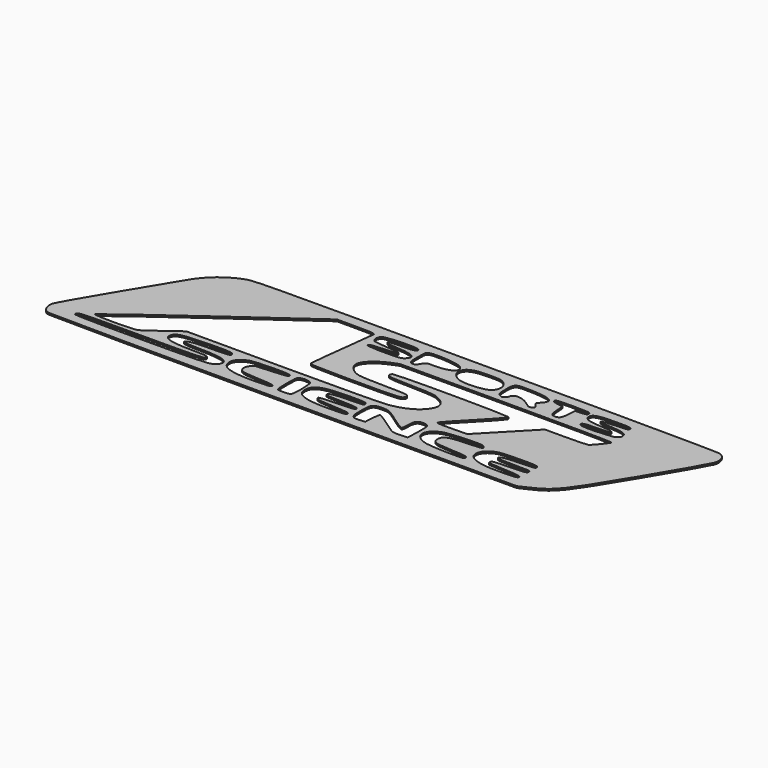
from build123d import *

# Parameters (mm, degrees)
F1_DEPTH = 25.4


with BuildPart() as f1:
    # F0 (on Top) → F1 (new body)
    with BuildSketch(Plane.XY):
        with BuildLine():
            add(Edge.make_bspline(
                [(-4148.2478884, -1047.0262524), (-4215.3594382, -1022.2834012), (-4255.3090154, -931.255694), (-4236.5467212, -845.8315062)],
                knots=[0, 0, 0, 0, 1, 1, 1, 1], degree=3))
            add(Edge.make_bspline(
                [(-640.0142648, -1063.2773756), (-2847.054758, -1065.574958), (-4113.853215, -1059.7069484), (-4148.2478884, -1047.0262524)],
                knots=[0, 0, 0, 0, 1, 1, 1, 1], degree=3))
            Line((-640.0142648, -1063.2773756), (2814.3857352, -1059.681142))
            Line((2814.3857352, -1059.681142), (2969.1170488, -985.7880716))
            add(Edge.make_bspline(
                [(3775.5698936, 31.9586864), (3285.6951304, -784.6131628), (3221.9677496, -865.0372844), (2969.1170488, -985.7880716)],
                knots=[0, 0, 0, 0, 1, 1, 1, 1], degree=3))
            add(Edge.make_bspline(
                [(4230.6974568, 826.0400548), (4218.4526248, 786.142827), (4013.6453128, 428.806229), (3775.5698936, 31.9586864)],
                knots=[0, 0, 0, 0, 1, 1, 1, 1], degree=3))
            add(Edge.make_bspline(
                [(4140.394564, 1042.1199884), (4224.0432664, 1012.9599248), (4260.9563752, 924.6327202), (4230.6974568, 826.0400548)],
                knots=[0, 0, 0, 0, 1, 1, 1, 1], degree=3))
            add(Edge.make_bspline(
                [(671.2816648, 1063.758858), (3028.6713112, 1063.758858), (4097.4449928, 1057.0922978), (4140.394564, 1042.1199884)],
                knots=[0, 0, 0, 0, 1, 1, 1, 1], degree=3))
            add(Edge.make_bspline(
                [(-2846.1261594, 1031.3414222), (-2747.0224206, 1060.4502794), (-2388.0295902, 1063.758858), (671.2816648, 1063.758858)],
                knots=[0, 0, 0, 0, 1, 1, 1, 1], degree=3))
            add(Edge.make_bspline(
                [(-3385.5310242, 603.9041008), (-3262.3916972, 809.5153736), (-3062.75359, 967.7133808), (-2846.1261594, 1031.3414222)],
                knots=[0, 0, 0, 0, 1, 1, 1, 1], degree=3))
            add(Edge.make_bspline(
                [(-3845.794188, -158.6893956), (-3638.6276732, 183.9651388), (-3431.509266, 527.1322198), (-3385.5310242, 603.9041008)],
                knots=[0, 0, 0, 0, 1, 1, 1, 1], degree=3))
            add(Edge.make_bspline(
                [(-4236.5467212, -845.8315062), (-4228.7993402, -810.5578912), (-4052.9607028, -501.3439554), (-3845.794188, -158.6893956)],
                knots=[0, 0, 0, 0, 1, 1, 1, 1], degree=3))
        make_face()
        with BuildLine():
            add(Edge.make_bspline(
                [(-1909.6814232, -884.9915244), (-1831.17998, -868.155998), (-1800.2202248, -850.5694444), (-1783.1575208, -813.1208274)],
                knots=[0, 0, 0, 0, 1, 1, 1, 1], degree=3))
            add(Edge.make_bspline(
                [(-3867.3313052, -893.9107852), (-3843.708848, -917.5331916), (-2022.732556, -909.2365356), (-1909.6814232, -884.9915244)],
                knots=[0, 0, 0, 0, 1, 1, 1, 1], degree=3))
            add(Edge.make_bspline(
                [(-3858.069881, -853.2707852), (-3870.5173796, -868.2689772), (-3874.6850116, -886.5569772), (-3867.3313052, -893.9107852)],
                knots=[0, 0, 0, 0, 1, 1, 1, 1], degree=3))
            add(Edge.make_bspline(
                [(-2936.1742648, -826.001142), (-3663.67822, -826.001142), (-3839.760799, -831.209666), (-3858.069881, -853.2707852)],
                knots=[0, 0, 0, 0, 1, 1, 1, 1], degree=3))
            add(Edge.make_bspline(
                [(-2013.5836792, -797.8941624), (-2032.8003032, -821.04865), (-2195.3619288, -826.001142), (-2936.1742648, -826.001142)],
                knots=[0, 0, 0, 0, 1, 1, 1, 1], degree=3))
            add(Edge.make_bspline(
                [(-2272.3562376, -744.6078072), (-2027.2488792, -744.7358232), (-1977.8999304, -754.8978806), (-2013.5836792, -797.8941624)],
                knots=[0, 0, 0, 0, 1, 1, 1, 1], degree=3))
            add(Edge.make_bspline(
                [(-2673.302502, -606.5399604), (-2703.596066, -701.9866072), (-2580.2923756, -744.4468474), (-2272.3562376, -744.6078072)],
                knots=[0, 0, 0, 0, 1, 1, 1, 1], degree=3))
            add(Edge.make_bspline(
                [(-2209.217324, -505.1049588), (-2565.3700534, -513.8206386), (-2649.7264252, -532.258397), (-2673.302502, -606.5399604)],
                knots=[0, 0, 0, 0, 1, 1, 1, 1], degree=3))
            add(Edge.make_bspline(
                [(-1838.6010472, -521.4445248), (-1860.254852, -503.4734152), (-1961.0164488, -499.0310568), (-2209.217324, -505.1049588)],
                knots=[0, 0, 0, 0, 1, 1, 1, 1], degree=3))
            add(Edge.make_bspline(
                [(-2092.7707192, -582.161142), (-1834.00954, -582.161142), (-1780.767076, -569.4424476), (-1838.6010472, -521.4445248)],
                knots=[0, 0, 0, 0, 1, 1, 1, 1], degree=3))
            add(Edge.make_bspline(
                [(-2448.5177852, -643.0830928), (-2473.1900498, -603.1625224), (-2350.5547096, -582.161142), (-2092.7707192, -582.161142)],
                knots=[0, 0, 0, 0, 1, 1, 1, 1], degree=3))
            add(Edge.make_bspline(
                [(-2208.5349784, -663.9259264), (-2337.9484102, -663.6500316), (-2441.3574236, -654.6688202), (-2448.5177852, -643.0830928)],
                knots=[0, 0, 0, 0, 1, 1, 1, 1], degree=3))
            add(Edge.make_bspline(
                [(-1783.1575208, -813.1208274), (-1735.0712568, -707.5828368), (-1857.4096456, -664.6744136), (-2208.5349784, -663.9259264)],
                knots=[0, 0, 0, 0, 1, 1, 1, 1], degree=3))
        make_face(mode=Mode.SUBTRACT)
        with BuildLine():
            add(Edge.make_bspline(
                [(-965.1342648, -866.641142), (-965.1342648, -841.8836604), (-1009.384316, -834.2536528), (-1200.8243192, -826.001142)],
                knots=[0, 0, 0, 0, 1, 1, 1, 1], degree=3))
            add(Edge.make_bspline(
                [(-1188.6542648, -900.288014), (-1004.924076, -897.6848188), (-965.1342648, -891.6952956), (-965.1342648, -866.641142)],
                knots=[0, 0, 0, 0, 1, 1, 1, 1], degree=3))
            add(Edge.make_bspline(
                [(-1723.5075512, -726.2695406), (-1711.161932, -853.3969724), (-1551.2498312, -905.4255196), (-1188.6542648, -900.288014)],
                knots=[0, 0, 0, 0, 1, 1, 1, 1], degree=3))
            add(Edge.make_bspline(
                [(-1566.6662088, -538.3735994), (-1673.122892, -574.2124406), (-1731.4843704, -644.1295982), (-1723.5075512, -726.2695406)],
                knots=[0, 0, 0, 0, 1, 1, 1, 1], degree=3))
            add(Edge.make_bspline(
                [(-1229.2942648, -512.3838876), (-1378.7322184, -513.1434492), (-1525.2495784, -524.4305488), (-1566.6662088, -538.3735994)],
                knots=[0, 0, 0, 0, 1, 1, 1, 1], degree=3))
            add(Edge.make_bspline(
                [(-965.1342648, -541.521142), (-965.1342648, -515.9220314), (-1007.4352216, -511.2561784), (-1229.2942648, -512.3838876)],
                knots=[0, 0, 0, 0, 1, 1, 1, 1], degree=3))
            add(Edge.make_bspline(
                [(-1188.6542648, -584.6559808), (-1009.1408824, -574.492628), (-965.1342648, -566.0002396), (-965.1342648, -541.521142)],
                knots=[0, 0, 0, 0, 1, 1, 1, 1], degree=3))
            add(Edge.make_bspline(
                [(-1425.9628072, -599.8959808), (-1418.37918, -598.4741904), (-1311.5902648, -591.616165), (-1188.6542648, -584.6559808)],
                knots=[0, 0, 0, 0, 1, 1, 1, 1], degree=3))
            add(Edge.make_bspline(
                [(-1503.6142648, -713.2044918), (-1503.6142648, -670.41014), (-1459.6139464, -606.2050614), (-1425.9628072, -599.8959808)],
                knots=[0, 0, 0, 0, 1, 1, 1, 1], degree=3))
            add(Edge.make_bspline(
                [(-1200.8243192, -826.001142), (-1452.8992024, -815.1348442), (-1503.6142648, -796.2421972), (-1503.6142648, -713.2044918)],
                knots=[0, 0, 0, 0, 1, 1, 1, 1], degree=3))
        make_face(mode=Mode.SUBTRACT)
        with BuildLine():
            add(Edge.make_bspline(
                [(-662.5083016, -875.1391692), (-640.0295048, -816.5604192), (-649.1881352, -550.6352208), (-674.5582648, -525.265142)],
                knots=[0, 0, 0, 0, 1, 1, 1, 1], degree=3))
            add(Edge.make_bspline(
                [(-760.7215672, -907.281142), (-701.1559256, -907.281142), (-671.0630216, -897.4328508), (-662.5083016, -875.1391692)],
                knots=[0, 0, 0, 0, 1, 1, 1, 1], degree=3))
            add(Edge.make_bspline(
                [(-860.1475304, -893.7344076), (-852.6969992, -901.185142), (-807.955204, -907.281142), (-760.7215672, -907.281142)],
                knots=[0, 0, 0, 0, 1, 1, 1, 1], degree=3))
            add(Edge.make_bspline(
                [(-873.6942648, -702.8684952), (-873.6942648, -800.394132), (-867.5982648, -886.2838764), (-860.1475304, -893.7344076)],
                knots=[0, 0, 0, 0, 1, 1, 1, 1], degree=3))
            add(Edge.make_bspline(
                [(-841.552292, -513.2151534), (-867.4637464, -523.1582882), (-873.6942648, -559.9214608), (-873.6942648, -702.8684952)],
                knots=[0, 0, 0, 0, 1, 1, 1, 1], degree=3))
            add(Edge.make_bspline(
                [(-674.5582648, -525.265142), (-700.5859496, -499.2373556), (-788.5802872, -492.8878636), (-841.552292, -513.2151534)],
                knots=[0, 0, 0, 0, 1, 1, 1, 1], degree=3))
        make_face(mode=Mode.SUBTRACT)
        with BuildLine():
            add(Edge.make_bspline(
                [(152.4657352, -866.641142), (152.4657352, -841.9037518), (108.4390008, -834.2469472), (-81.2142648, -826.001142)],
                knots=[0, 0, 0, 0, 1, 1, 1, 1], degree=3))
            add(Edge.make_bspline(
                [(-81.2142648, -900.3310924), (111.5280472, -897.6833964), (152.4657352, -891.7814524), (152.4657352, -866.641142)],
                knots=[0, 0, 0, 0, 1, 1, 1, 1], degree=3))
            add(Edge.make_bspline(
                [(-609.5342648, -711.8872224), (-609.5342648, -850.2323356), (-454.694036, -905.461486), (-81.2142648, -900.3310924)],
                knots=[0, 0, 0, 0, 1, 1, 1, 1], degree=3))
            add(Edge.make_bspline(
                [(-81.574132, -511.1014924), (-484.0316456, -511.205607), (-609.5342648, -558.934874), (-609.5342648, -711.8872224)],
                knots=[0, 0, 0, 0, 1, 1, 1, 1], degree=3))
            add(Edge.make_bspline(
                [(158.6757304, -546.601142), (152.5557528, -515.1971408), (124.4771704, -511.0482032), (-81.574132, -511.1014924)],
                knots=[0, 0, 0, 0, 1, 1, 1, 1], degree=3))
            add(Edge.make_bspline(
                [(-34.0044024, -584.1866396), (144.5951896, -582.3742988), (164.8761752, -578.4181726), (158.6757304, -546.601142)],
                knots=[0, 0, 0, 0, 1, 1, 1, 1], degree=3))
            add(Edge.make_bspline(
                [(-340.2686616, -637.964307), (-327.634092, -600.060522), (-249.696732, -586.3753322), (-34.0044024, -584.1866396)],
                knots=[0, 0, 0, 0, 1, 1, 1, 1], degree=3))
            add(Edge.make_bspline(
                [(-97.9351864, -667.8838306), (-280.5662664, -663.7138872), (-346.152724, -655.616291), (-340.2686616, -637.964307)],
                knots=[0, 0, 0, 0, 1, 1, 1, 1], degree=3))
            add(Edge.make_bspline(
                [(152.4657352, -704.081142), (152.4657352, -678.946064), (108.5556376, -672.5985532), (-97.9351864, -667.8838306)],
                knots=[0, 0, 0, 0, 1, 1, 1, 1], degree=3))
            add(Edge.make_bspline(
                [(-106.6142648, -740.2482528), (107.6048648, -735.5459), (152.4657352, -729.2833776), (152.4657352, -704.081142)],
                knots=[0, 0, 0, 0, 1, 1, 1, 1], degree=3))
            add(Edge.make_bspline(
                [(-365.6942648, -764.4490172), (-365.6942648, -754.2665128), (-249.1082648, -743.3761358), (-106.6142648, -740.2482528)],
                knots=[0, 0, 0, 0, 1, 1, 1, 1], degree=3))
            add(Edge.make_bspline(
                [(-81.2142648, -826.001142), (-307.1620984, -816.177311), (-365.6942648, -803.512871), (-365.6942648, -764.4490172)],
                knots=[0, 0, 0, 0, 1, 1, 1, 1], degree=3))
        make_face(mode=Mode.SUBTRACT)
        with BuildLine():
            add(Edge.make_bspline(
                [(443.1896648, -785.361142), (446.623948, -723.893142), (455.767948, -667.3465952), (463.5096648, -659.7021604)],
                knots=[0, 0, 0, 0, 1, 1, 1, 1], degree=3))
            Line((443.1896648, -785.361142), (436.9457352, -897.121142))
            Line((436.9457352, -897.121142), (355.5742952, -903.125702))
            add(Edge.make_bspline(
                [(223.5857352, -719.0012798), (223.5857352, -883.7239628), (243.4261832, -911.4014284), (355.5742952, -903.125702)],
                knots=[0, 0, 0, 0, 1, 1, 1, 1], degree=3))
            add(Edge.make_bspline(
                [(373.6343048, -500.881142), (240.201196, -500.881142), (223.5857352, -525.0344592), (223.5857352, -719.0012798)],
                knots=[0, 0, 0, 0, 1, 1, 1, 1], degree=3))
            add(Edge.make_bspline(
                [(662.4794472, -630.7559648), (494.4803928, -510.1207984), (473.9311832, -500.881142), (373.6343048, -500.881142)],
                knots=[0, 0, 0, 0, 1, 1, 1, 1], degree=3))
            add(Edge.make_bspline(
                [(858.5857352, -751.4767292), (850.2037352, -756.511441), (761.955804, -702.1870894), (662.4794472, -630.7559648)],
                knots=[0, 0, 0, 0, 1, 1, 1, 1], degree=3))
            add(Edge.make_bspline(
                [(873.8257352, -645.9859064), (873.8257352, -698.9711446), (866.9677352, -746.441992), (858.5857352, -751.4767292)],
                knots=[0, 0, 0, 0, 1, 1, 1, 1], degree=3))
            add(Edge.make_bspline(
                [(974.4097352, -501.192292), (899.169652, -500.7403752), (873.8257352, -537.2237414), (873.8257352, -645.9859064)],
                knots=[0, 0, 0, 0, 1, 1, 1, 1], degree=3))
            add(Edge.make_bspline(
                [(1072.7859672, -715.9596044), (1079.1526296, -521.1301998), (1070.2835592, -501.7680338), (974.4097352, -501.192292)],
                knots=[0, 0, 0, 0, 1, 1, 1, 1], degree=3))
            Line((1072.7859672, -715.9596044), (1066.8657352, -897.121142))
            Line((1066.8657352, -897.121142), (955.1057352, -902.7593324))
            add(Edge.make_bspline(
                [(660.4657352, -777.1002746), (838.0042168, -904.5625292), (846.60994, -908.2327276), (955.1057352, -902.7593324)],
                knots=[0, 0, 0, 0, 1, 1, 1, 1], degree=3))
            add(Edge.make_bspline(
                [(463.5096648, -659.7021604), (471.2515848, -652.0577256), (559.8817352, -704.8868808), (660.4657352, -777.1002746)],
                knots=[0, 0, 0, 0, 1, 1, 1, 1], degree=3))
        make_face(mode=Mode.SUBTRACT)
        with BuildLine():
            add(Edge.make_bspline(
                [(1906.3410184, -871.721142), (1900.4819496, -841.0117038), (1867.4280152, -834.7752672), (1664.0197352, -826.001142)],
                knots=[0, 0, 0, 0, 1, 1, 1, 1], degree=3))
            add(Edge.make_bspline(
                [(1672.8755976, -904.8789116), (1891.44402, -907.0643276), (1912.5134216, -904.0722076), (1906.3410184, -871.721142)],
                knots=[0, 0, 0, 0, 1, 1, 1, 1], degree=3))
            add(Edge.make_bspline(
                [(1336.847212, -882.4962284), (1389.5253896, -893.4854876), (1540.7382952, -903.5577052), (1672.8755976, -904.8789116)],
                knots=[0, 0, 0, 0, 1, 1, 1, 1], degree=3))
            add(Edge.make_bspline(
                [(1300.5457352, -543.1117408), (1068.408836, -622.6198622), (1090.7136936, -831.1497474), (1336.847212, -882.4962284)],
                knots=[0, 0, 0, 0, 1, 1, 1, 1], degree=3))
            add(Edge.make_bspline(
                [(1856.575916, -508.5302504), (1780.590292, -489.4590668), (1385.44046, -514.0348368), (1300.5457352, -543.1117408)],
                knots=[0, 0, 0, 0, 1, 1, 1, 1], degree=3))
            add(Edge.make_bspline(
                [(1910.1457352, -549.8752274), (1910.1457352, -534.5303254), (1886.0393064, -515.9250794), (1856.575916, -508.5302504)],
                knots=[0, 0, 0, 0, 1, 1, 1, 1], degree=3))
            add(Edge.make_bspline(
                [(1678.51074, -585.128116), (1857.770732, -579.437627), (1910.1457352, -571.466599), (1910.1457352, -549.8752274)],
                knots=[0, 0, 0, 0, 1, 1, 1, 1], degree=3))
            add(Edge.make_bspline(
                [(1361.5057352, -714.9024056), (1361.5057352, -620.0270302), (1427.2730408, -593.1034874), (1678.51074, -585.128116)],
                knots=[0, 0, 0, 0, 1, 1, 1, 1], degree=3))
            add(Edge.make_bspline(
                [(1664.0197352, -826.001142), (1413.3272216, -815.1873714), (1361.5057352, -796.155888), (1361.5057352, -714.9024056)],
                knots=[0, 0, 0, 0, 1, 1, 1, 1], degree=3))
        make_face(mode=Mode.SUBTRACT)
        with BuildLine():
            add(Edge.make_bspline(
                [(2692.4657352, -866.641142), (2692.4657352, -841.9347398), (2646.2769528, -833.7962496), (2448.6257352, -823.6763054)],
                knots=[0, 0, 0, 0, 1, 1, 1, 1], degree=3))
            add(Edge.make_bspline(
                [(2458.7857352, -900.4666268), (2651.4676968, -897.7081868), (2692.4657352, -891.7735276), (2692.4657352, -866.641142)],
                knots=[0, 0, 0, 0, 1, 1, 1, 1], degree=3))
            add(Edge.make_bspline(
                [(2011.379772, -835.9718866), (2114.1363864, -889.1093724), (2216.941972, -903.9291548), (2458.7857352, -900.4666268)],
                knots=[0, 0, 0, 0, 1, 1, 1, 1], degree=3))
            add(Edge.make_bspline(
                [(2059.4617688, -554.2703926), (1914.6980248, -625.231541), (1889.4867976, -772.9385862), (2011.379772, -835.9718866)],
                knots=[0, 0, 0, 0, 1, 1, 1, 1], degree=3))
            add(Edge.make_bspline(
                [(2414.2652248, -513.6303926), (2188.2133528, -515.742047), (2122.7687288, -523.238222), (2059.4617688, -554.2703926)],
                knots=[0, 0, 0, 0, 1, 1, 1, 1], degree=3))
            add(Edge.make_bspline(
                [(2698.5245496, -546.601142), (2692.1645928, -514.6631566), (2663.2110312, -511.3048702), (2414.2652248, -513.6303926)],
                knots=[0, 0, 0, 0, 1, 1, 1, 1], degree=3))
            add(Edge.make_bspline(
                [(2516.1555976, -584.5653028), (2685.0308504, -582.4222286), (2704.8365512, -578.2992244), (2698.5245496, -546.601142)],
                knots=[0, 0, 0, 0, 1, 1, 1, 1], degree=3))
            add(Edge.make_bspline(
                [(2199.6886664, -638.041142), (2211.68214, -601.9887376), (2298.4428504, -587.3281116), (2516.1555976, -584.5653028)],
                knots=[0, 0, 0, 0, 1, 1, 1, 1], degree=3))
            add(Edge.make_bspline(
                [(2448.422332, -663.441142), (2251.7157912, -663.441142), (2193.2260936, -657.468332), (2199.6886664, -638.041142)],
                knots=[0, 0, 0, 0, 1, 1, 1, 1], degree=3))
            add(Edge.make_bspline(
                [(2698.7883032, -699.001142), (2704.99078, -666.6484508), (2682.409164, -663.441142), (2448.422332, -663.441142)],
                knots=[0, 0, 0, 0, 1, 1, 1, 1], degree=3))
            add(Edge.make_bspline(
                [(2443.2982376, -740.2665662), (2661.3127368, -735.2645696), (2692.8113784, -730.1770512), (2698.7883032, -699.001142)],
                knots=[0, 0, 0, 0, 1, 1, 1, 1], degree=3))
            add(Edge.make_bspline(
                [(2194.6257352, -775.8265662), (2194.6257352, -751.5043136), (2240.7068216, -744.9147408), (2443.2982376, -740.2665662)],
                knots=[0, 0, 0, 0, 1, 1, 1, 1], degree=3))
            add(Edge.make_bspline(
                [(2199.7057352, -808.4363054), (2196.9117352, -806.921043), (2194.6257352, -792.246574), (2194.6257352, -775.8265662)],
                knots=[0, 0, 0, 0, 1, 1, 1, 1], degree=3))
            add(Edge.make_bspline(
                [(2448.6257352, -823.6763054), (2314.5137352, -816.809644), (2202.4997352, -809.951644), (2199.7057352, -808.4363054)],
                knots=[0, 0, 0, 0, 1, 1, 1, 1], degree=3))
        make_face(mode=Mode.SUBTRACT)
        with BuildLine():
            add(Edge.make_bspline(
                [(-3044.8443548, -743.067475), (-3022.2623578, -730.9819518), (-2911.7173668, -653.2579518), (-2799.1888136, -570.347475)],
                knots=[0, 0, 0, 0, 1, 1, 1, 1], degree=3))
            add(Edge.make_bspline(
                [(-3687.2828972, -745.904528), (-3670.6461258, -772.8233718), (-3095.6995998, -770.2843624), (-3044.8443548, -743.067475)],
                knots=[0, 0, 0, 0, 1, 1, 1, 1], degree=3))
            add(Edge.make_bspline(
                [(-2559.8893938, 87.215472), (-3186.4607086, -360.475403), (-3693.7877864, -735.379403), (-3687.2828972, -745.904528)],
                knots=[0, 0, 0, 0, 1, 1, 1, 1], degree=3))
            Line((-2559.8893938, 87.215472), (-1420.6688376, 901.198858))
            Line((-1420.6688376, 901.198858), (-1137.0215512, 901.198858))
            add(Edge.make_bspline(
                [(-853.3742648, 865.2018002), (-853.3742648, 897.932037), (-879.115844, 901.198858), (-1137.0215512, 901.198858)],
                knots=[0, 0, 0, 0, 1, 1, 1, 1], degree=3))
            add(Edge.make_bspline(
                [(-915.4041128, 354.3243104), (-881.2876456, 615.508548), (-853.3742648, 845.4033892), (-853.3742648, 865.2018002)],
                knots=[0, 0, 0, 0, 1, 1, 1, 1], degree=3))
            add(Edge.make_bspline(
                [(-966.8417544, -148.1586064), (-972.6674984, -132.9772296), (-949.52058, 93.1400728), (-915.4041128, 354.3243104)],
                knots=[0, 0, 0, 0, 1, 1, 1, 1], degree=3))
            add(Edge.make_bspline(
                [(-296.663364, -175.761142), (-833.6575656, -175.761142), (-958.2183528, -170.6308754), (-966.8417544, -148.1586064)],
                knots=[0, 0, 0, 0, 1, 1, 1, 1], degree=3))
            add(Edge.make_bspline(
                [(395.555724, -143.1283142), (366.9323624, -171.7516504), (281.88158, -175.761142), (-296.663364, -175.761142)],
                knots=[0, 0, 0, 0, 1, 1, 1, 1], degree=3))
            add(Edge.make_bspline(
                [(404.6789976, -82.1683142), (422.830244, -104.039289), (420.7508984, -117.9330382), (395.555724, -143.1283142)],
                knots=[0, 0, 0, 0, 1, 1, 1, 1], degree=3))
            add(Edge.make_bspline(
                [(53.4577544, -53.7278072), (308.792372, -53.8151832), (386.3617368, -60.0973906), (404.6789976, -82.1683142)],
                knots=[0, 0, 0, 0, 1, 1, 1, 1], degree=3))
            add(Edge.make_bspline(
                [(-353.9330488, -31.4921646), (-310.1097176, -43.6594504), (-126.7838968, -53.665501), (53.4577544, -53.7278072)],
                knots=[0, 0, 0, 0, 1, 1, 1, 1], degree=3))
            add(Edge.make_bspline(
                [(-548.5742648, 168.138348), (-548.5742648, 87.8882672), (-461.22082, -1.7043654), (-353.9330488, -31.4921646)],
                knots=[0, 0, 0, 0, 1, 1, 1, 1], degree=3))
            add(Edge.make_bspline(
                [(-267.6350248, 438.0347856), (-419.4745992, 376.6618832), (-548.5742648, 252.6367312), (-548.5742648, 168.138348)],
                knots=[0, 0, 0, 0, 1, 1, 1, 1], degree=3))
            Line((-267.6350248, 438.0347856), (-152.3342648, 484.638858))
            Line((-152.3342648, 484.638858), (1417.3857352, 490.3190346))
            add(Edge.make_bspline(
                [(2987.1057352, 477.001586), (2987.1057352, 488.6701682), (2381.52686, 493.807877), (1417.3857352, 490.3190346)],
                knots=[0, 0, 0, 0, 1, 1, 1, 1], degree=3))
            add(Edge.make_bspline(
                [(2817.0505, 266.5099572), (2853.0268568, 289.8769158), (2987.1057352, 455.8375948), (2987.1057352, 477.001586)],
                knots=[0, 0, 0, 0, 1, 1, 1, 1], degree=3))
            add(Edge.make_bspline(
                [(2487.082148, 251.2699572), (2655.92306, 251.4406452), (2804.4088184, 258.2991024), (2817.0505, 266.5099572)],
                knots=[0, 0, 0, 0, 1, 1, 1, 1], degree=3))
            Line((2487.082148, 251.2699572), (2180.098764, 250.958858))
            Line((2180.098764, 250.958858), (1865.5921032, -74.161142))
            Line((1865.5921032, -74.161142), (1551.0854424, -399.281142))
            Line((1551.0854424, -399.281142), (1380.0956904, -403.0025214))
            add(Edge.make_bspline(
                [(1101.2536776, -389.6414864), (1116.3534696, -404.7412784), (1173.793436, -407.4935716), (1380.0956904, -403.0025214)],
                knots=[0, 0, 0, 0, 1, 1, 1, 1], degree=3))
            add(Edge.make_bspline(
                [(1380.1174328, -85.3395296), (1220.4333224, -246.3964592), (1094.9445208, -383.332355), (1101.2536776, -389.6414864)],
                knots=[0, 0, 0, 0, 1, 1, 1, 1], degree=3))
            add(Edge.make_bspline(
                [(1657.0196984, 229.2255512), (1664.4230872, 217.246708), (1540.135604, 76.0544072), (1380.1174328, -85.3395296)],
                knots=[0, 0, 0, 0, 1, 1, 1, 1], degree=3))
            add(Edge.make_bspline(
                [(-58.7752952, 232.3794184), (-16.3361624, 259.2516786), (1640.3447, 256.2064472), (1657.0196984, 229.2255512)],
                knots=[0, 0, 0, 0, 1, 1, 1, 1], degree=3))
            add(Edge.make_bspline(
                [(-75.4346472, 183.9277246), (-81.8706008, 200.6992176), (-74.3739432, 222.5025014), (-58.7752952, 232.3794184)],
                knots=[0, 0, 0, 0, 1, 1, 1, 1], degree=3))
            add(Edge.make_bspline(
                [(288.20618, 145.7086748), (-1.005332, 152.0571508), (-65.8188168, 158.869126), (-75.4346472, 183.9277246)],
                knots=[0, 0, 0, 0, 1, 1, 1, 1], degree=3))
            add(Edge.make_bspline(
                [(725.8262344, 92.8051484), (648.9489688, 133.341491), (603.986092, 138.7769894), (288.20618, 145.7086748)],
                knots=[0, 0, 0, 0, 1, 1, 1, 1], degree=3))
            add(Edge.make_bspline(
                [(782.21586, -213.9124246), (894.4131464, -89.7235442), (875.3503448, 13.9632944), (725.8262344, 92.8051484)],
                knots=[0, 0, 0, 0, 1, 1, 1, 1], degree=3))
            add(Edge.make_bspline(
                [(384.8131496, -398.079468), (564.966612, -368.8496306), (697.8927368, -307.248052), (782.21586, -213.9124246)],
                knots=[0, 0, 0, 0, 1, 1, 1, 1], degree=3))
            add(Edge.make_bspline(
                [(-1170.262836, -419.44671), (-278.5119144, -419.351206), (302.9542328, -411.3610772), (384.8131496, -398.079468)],
                knots=[0, 0, 0, 0, 1, 1, 1, 1], degree=3))
            Line((-1170.262836, -419.44671), (-2594.5914326, -419.601142))
            Line((-2594.5914326, -419.601142), (-2799.1888136, -570.347475))
        make_face(mode=Mode.SUBTRACT)
        with BuildLine():
            add(Edge.make_bspline(
                [(-199.6542616, 630.028204), (-106.1168312, 714.6784792), (-179.9485352, 766.3753024), (-412.8092328, 779.278858)],
                knots=[0, 0, 0, 0, 1, 1, 1, 1], degree=3))
            add(Edge.make_bspline(
                [(-482.9349752, 596.398858), (-282.4326584, 596.398858), (-229.9267944, 602.6320434), (-199.6542616, 630.028204)],
                knots=[0, 0, 0, 0, 1, 1, 1, 1], degree=3))
            add(Edge.make_bspline(
                [(-741.2460664, 616.1231264), (-734.4502456, 605.1273648), (-620.1408984, 596.398858), (-482.9349752, 596.398858)],
                knots=[0, 0, 0, 0, 1, 1, 1, 1], degree=3))
            add(Edge.make_bspline(
                [(-497.7742648, 662.4012152), (-689.0525208, 656.3794848), (-758.0236808, 643.2697828), (-741.2460664, 616.1231264)],
                knots=[0, 0, 0, 0, 1, 1, 1, 1], degree=3))
            add(Edge.make_bspline(
                [(-335.2142648, 687.838858), (-335.2142648, 676.4119822), (-406.3592584, 665.2791114), (-497.7742648, 662.4012152)],
                knots=[0, 0, 0, 0, 1, 1, 1, 1], degree=3))
            add(Edge.make_bspline(
                [(-518.0942648, 719.3150714), (-417.1583224, 713.1576796), (-335.2142648, 699.0539486), (-335.2142648, 687.838858)],
                knots=[0, 0, 0, 0, 1, 1, 1, 1], degree=3))
            add(Edge.make_bspline(
                [(-736.5342648, 746.8890828), (-716.9762648, 737.8592812), (-618.6782648, 725.4509748), (-518.0942648, 719.3150714)],
                knots=[0, 0, 0, 0, 1, 1, 1, 1], degree=3))
            add(Edge.make_bspline(
                [(-739.991916, 882.2252358), (-782.8573624, 846.6501228), (-780.831052, 767.340604), (-736.5342648, 746.8890828)],
                knots=[0, 0, 0, 0, 1, 1, 1, 1], degree=3))
            add(Edge.make_bspline(
                [(-217.0926824, 902.9652502), (-250.3882216, 936.2608148), (-696.1884984, 918.578808), (-739.991916, 882.2252358)],
                knots=[0, 0, 0, 0, 1, 1, 1, 1], degree=3))
            add(Edge.make_bspline(
                [(-433.4275304, 840.550008), (-243.9112216, 840.8785824), (-174.9128328, 860.785426), (-217.0926824, 902.9652502)],
                knots=[0, 0, 0, 0, 1, 1, 1, 1], degree=3))
            add(Edge.make_bspline(
                [(-604.5400152, 814.838858), (-610.8160504, 833.8594194), (-567.8394536, 840.3170138), (-433.4275304, 840.550008)],
                knots=[0, 0, 0, 0, 1, 1, 1, 1], degree=3))
            add(Edge.make_bspline(
                [(-412.8092328, 779.278858), (-533.7961384, 785.9831372), (-599.0095208, 798.07816), (-604.5400152, 814.838858)],
                knots=[0, 0, 0, 0, 1, 1, 1, 1], degree=3))
        make_face(mode=Mode.SUBTRACT)
        with BuildLine():
            add(Edge.make_bspline(
                [(36.5797592, 642.3673462), (61.8791752, 695.152915), (70.5147688, 697.998858), (205.3836888, 697.998858)],
                knots=[0, 0, 0, 0, 1, 1, 1, 1], degree=3))
            add(Edge.make_bspline(
                [(-20.4089, 582.7777016), (-3.7300408, 584.9546848), (21.9148152, 611.7700236), (36.5797592, 642.3673462)],
                knots=[0, 0, 0, 0, 1, 1, 1, 1], degree=3))
            add(Edge.make_bspline(
                [(-101.5342648, 750.105053), (-101.5342648, 598.8176746), (-89.392252, 573.773808), (-20.4089, 582.7777016)],
                knots=[0, 0, 0, 0, 1, 1, 1, 1], degree=3))
            add(Edge.make_bspline(
                [(-48.7353864, 913.6762524), (-99.6347512, 900.9013224), (-101.5342648, 895.016752), (-101.5342648, 750.105053)],
                knots=[0, 0, 0, 0, 1, 1, 1, 1], degree=3))
            add(Edge.make_bspline(
                [(416.2676968, 872.821978), (360.5642776, 909.3203556), (44.5362584, 937.0859592), (-48.7353864, 913.6762524)],
                knots=[0, 0, 0, 0, 1, 1, 1, 1], degree=3))
            add(Edge.make_bspline(
                [(205.3836888, 697.998858), (433.4783304, 697.998858), (543.6680008, 789.3461226), (416.2676968, 872.821978)],
                knots=[0, 0, 0, 0, 1, 1, 1, 1], degree=3))
        make_face(mode=Mode.SUBTRACT)
        with BuildLine():
            add(Edge.make_bspline(
                [(1074.9632552, 632.43714), (1151.951468, 689.9171622), (1149.670548, 809.3834968), (1070.4556696, 868.5258982)],
                knots=[0, 0, 0, 0, 1, 1, 1, 1], degree=3))
            add(Edge.make_bspline(
                [(631.8889064, 601.2905678), (735.2358168, 563.0849546), (1007.7300648, 582.2403392), (1074.9632552, 632.43714)],
                knots=[0, 0, 0, 0, 1, 1, 1, 1], degree=3))
            add(Edge.make_bspline(
                [(495.5532888, 787.3003558), (478.4121496, 719.0046326), (539.7153544, 635.3656584), (631.8889064, 601.2905678)],
                knots=[0, 0, 0, 0, 1, 1, 1, 1], degree=3))
            add(Edge.make_bspline(
                [(826.6156696, 911.2815658), (614.0611544, 911.1941898), (517.5799656, 875.0616992), (495.5532888, 787.3003558)],
                knots=[0, 0, 0, 0, 1, 1, 1, 1], degree=3))
            add(Edge.make_bspline(
                [(1070.4556696, 868.5258982), (1021.8337704, 904.8274512), (984.6516248, 911.3470724), (826.6156696, 911.2815658)],
                knots=[0, 0, 0, 0, 1, 1, 1, 1], degree=3))
        make_face(mode=Mode.SUBTRACT)
        with BuildLine():
            add(Edge.make_bspline(
                [(1313.4351176, 591.630008), (1326.112156, 599.8408882), (1339.904356, 624.846858), (1344.0839768, 647.198858)],
                knots=[0, 0, 0, 0, 1, 1, 1, 1], degree=3))
            add(Edge.make_bspline(
                [(1234.5057352, 598.0264646), (1277.4229976, 573.0294864), (1283.9056872, 572.5041128), (1313.4351176, 591.630008)],
                knots=[0, 0, 0, 0, 1, 1, 1, 1], degree=3))
            add(Edge.make_bspline(
                [(1198.9457352, 747.3204764), (1198.9457352, 646.2980978), (1206.567564, 614.2989746), (1234.5057352, 598.0264646)],
                knots=[0, 0, 0, 0, 1, 1, 1, 1], degree=3))
            add(Edge.make_bspline(
                [(1468.3864968, 917.5184088), (1210.1136072, 929.0738594), (1198.9457352, 922.0193904), (1198.9457352, 747.3204764)],
                knots=[0, 0, 0, 0, 1, 1, 1, 1], degree=3))
            add(Edge.make_bspline(
                [(1723.9237048, 745.2414102), (1828.4321064, 856.48546), (1757.0599352, 904.6027628), (1468.3864968, 917.5184088)],
                knots=[0, 0, 0, 0, 1, 1, 1, 1], degree=3))
            add(Edge.make_bspline(
                [(1718.0357816, 656.3312502), (1680.7024552, 697.5839236), (1680.820108, 699.3598154), (1723.9237048, 745.2414102)],
                knots=[0, 0, 0, 0, 1, 1, 1, 1], degree=3))
            add(Edge.make_bspline(
                [(1726.457812, 595.469472), (1751.8403368, 611.5246342), (1750.6227624, 620.322864), (1718.0357816, 656.3312502)],
                knots=[0, 0, 0, 0, 1, 1, 1, 1], degree=3))
            add(Edge.make_bspline(
                [(1586.672468, 638.1819088), (1681.4538888, 569.52261), (1684.13938, 568.7020376), (1726.457812, 595.469472)],
                knots=[0, 0, 0, 0, 1, 1, 1, 1], degree=3))
            add(Edge.make_bspline(
                [(1344.0839768, 647.198858), (1357.222076, 717.4555628), (1483.7297224, 712.7532862), (1586.672468, 638.1819088)],
                knots=[0, 0, 0, 0, 1, 1, 1, 1], degree=3))
        make_face(mode=Mode.SUBTRACT)
        with BuildLine():
            add(Edge.make_bspline(
                [(2129.877884, 601.9948082), (2141.7075784, 616.248577), (2154.2572104, 673.398577), (2157.766068, 728.9948082)],
                knots=[0, 0, 0, 0, 1, 1, 1, 1], degree=3))
            add(Edge.make_bspline(
                [(2018.0483896, 592.0735682), (2054.9342696, 568.6208338), (2105.9350312, 573.1455136), (2129.877884, 601.9948082)],
                knots=[0, 0, 0, 0, 1, 1, 1, 1], degree=3))
            add(Edge.make_bspline(
                [(1987.5683896, 718.7623928), (1991.0349816, 657.5383598), (2004.7509816, 600.52839), (2018.0483896, 592.0735682)],
                knots=[0, 0, 0, 0, 1, 1, 1, 1], degree=3))
            Line((1987.5683896, 718.7623928), (1981.2657352, 830.078858))
            Line((1981.2657352, 830.078858), (1899.9857352, 840.238858))
            add(Edge.make_bspline(
                [(1818.7057352, 880.878858), (1818.7057352, 860.558858), (1845.7990008, 847.0121744), (1899.9857352, 840.238858)],
                knots=[0, 0, 0, 0, 1, 1, 1, 1], degree=3))
            add(Edge.make_bspline(
                [(2072.4273512, 911.358858), (1860.4436248, 911.358858), (1818.7057352, 906.3448218), (1818.7057352, 880.878858)],
                knots=[0, 0, 0, 0, 1, 1, 1, 1], degree=3))
            add(Edge.make_bspline(
                [(2332.7606888, 877.0284466), (2326.9751784, 907.069687), (2294.4497672, 911.358858), (2072.4273512, 911.358858)],
                knots=[0, 0, 0, 0, 1, 1, 1, 1], degree=3))
            add(Edge.make_bspline(
                [(2251.7588696, 836.3884466), (2321.2335592, 841.391764), (2338.0032488, 849.8054124), (2332.7606888, 877.0284466)],
                knots=[0, 0, 0, 0, 1, 1, 1, 1], degree=3))
            Line((2251.7588696, 836.3884466), (2164.1457352, 830.078858))
            Line((2164.1457352, 830.078858), (2157.766068, 728.9948082))
        make_face(mode=Mode.SUBTRACT)
        with BuildLine():
            add(Edge.make_bspline(
                [(2942.92274, 614.8226718), (2967.223428, 627.8280052), (2987.1057352, 655.3153772), (2987.1057352, 675.9057094)],
                knots=[0, 0, 0, 0, 1, 1, 1, 1], degree=3))
            add(Edge.make_bspline(
                [(2440.9423368, 592.9101934), (2478.4561048, 567.1024726), (2887.086428, 584.9400544), (2942.92274, 614.8226718)],
                knots=[0, 0, 0, 0, 1, 1, 1, 1], degree=3))
            add(Edge.make_bspline(
                [(2634.3982872, 657.358858), (2444.349188, 657.358858), (2378.9368728, 635.5671312), (2440.9423368, 592.9101934)],
                knots=[0, 0, 0, 0, 1, 1, 1, 1], degree=3))
            add(Edge.make_bspline(
                [(2819.5514856, 682.758858), (2825.8630808, 663.630118), (2780.1487704, 657.358858), (2634.3982872, 657.358858)],
                knots=[0, 0, 0, 0, 1, 1, 1, 1], degree=3))
            add(Edge.make_bspline(
                [(2627.8207032, 718.318858), (2748.8076088, 711.6145788), (2814.0209912, 699.519556), (2819.5514856, 682.758858)],
                knots=[0, 0, 0, 0, 1, 1, 1, 1], degree=3))
            add(Edge.make_bspline(
                [(2377.5057352, 821.6920066), (2377.5057352, 753.5899076), (2437.3568728, 728.873066), (2627.8207032, 718.318858)],
                knots=[0, 0, 0, 0, 1, 1, 1, 1], degree=3))
            add(Edge.make_bspline(
                [(2702.1738184, 910.413216), (2455.9746664, 909.414996), (2377.5057352, 887.9720112), (2377.5057352, 821.6920066)],
                knots=[0, 0, 0, 0, 1, 1, 1, 1], degree=3))
            add(Edge.make_bspline(
                [(2942.2790024, 876.5509012), (2936.2510744, 907.061305), (2906.6064296, 911.2420942), (2702.1738184, 910.413216)],
                knots=[0, 0, 0, 0, 1, 1, 1, 1], degree=3))
            add(Edge.make_bspline(
                [(2754.6674904, 835.9109012), (2925.6769528, 841.0389072), (2948.325828, 845.9450442), (2942.2790024, 876.5509012)],
                knots=[0, 0, 0, 0, 1, 1, 1, 1], degree=3))
            add(Edge.make_bspline(
                [(2560.0153016, 809.758858), (2560.1169016, 821.4688168), (2642.58806, 832.550024), (2754.6674904, 835.9109012)],
                knots=[0, 0, 0, 0, 1, 1, 1, 1], degree=3))
            add(Edge.make_bspline(
                [(2739.996044, 779.278858), (2640.0468408, 784.9159054), (2559.9244712, 798.4847632), (2560.0153016, 809.758858)],
                knots=[0, 0, 0, 0, 1, 1, 1, 1], degree=3))
            add(Edge.make_bspline(
                [(2987.1057352, 675.9057094), (2987.1057352, 743.6401434), (2927.1440568, 768.723888), (2739.996044, 779.278858)],
                knots=[0, 0, 0, 0, 1, 1, 1, 1], degree=3))
        make_face(mode=Mode.SUBTRACT)
    extrude(amount=F1_DEPTH)


solid = f1.part
